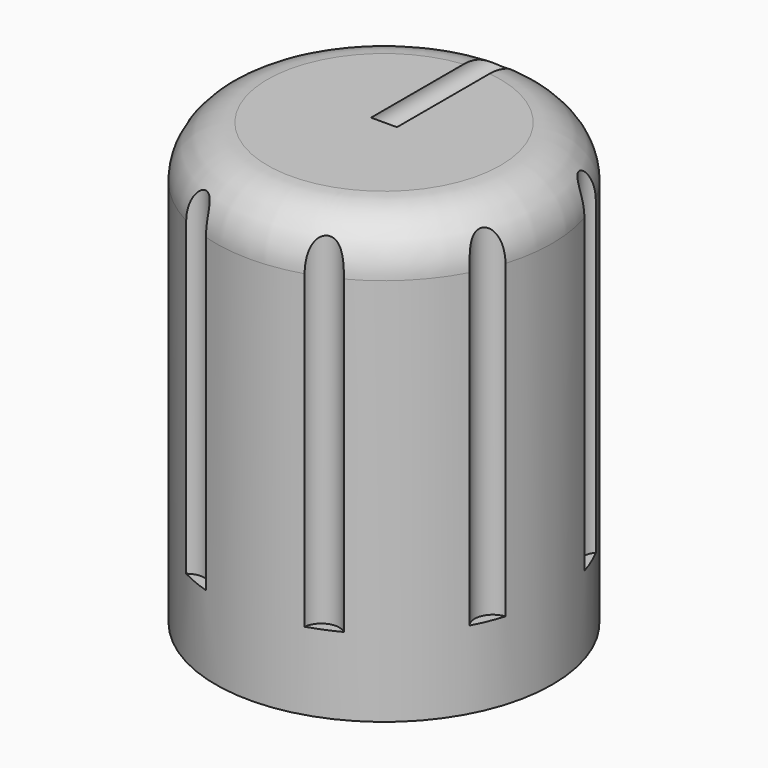
from build123d import *

# Parameters (mm, degrees)
CYLINDER_R                    = 4
CYLINDER_DEPTH                = 2
CYLINDER004_R                 = 0.7
CYLINDER004_DEPTH             = 15
CYLINDER005_R                 = 0.7
CYLINDER005_DEPTH             = 15
CYLINDER006_R                 = 0.7
CYLINDER006_DEPTH             = 15
CYLINDER007_R                 = 0.7
CYLINDER007_DEPTH             = 15
CYLINDER008_R                 = 0.7
CYLINDER008_DEPTH             = 15
CYLINDER009_R                 = 0.7
CYLINDER009_DEPTH             = 15
CYLINDER010_R                 = 0.7
CYLINDER010_DEPTH             = 15
CYLINDER003_R                 = 0.7
CYLINDER003_DEPTH             = 15
CUBE_W                        = 10
CUBE_H                        = 5
CUBE_DEPTH                    = 12
CYLINDER011_R                 = 3.2
CYLINDER011_DEPTH             = 12
CUBE001_W                     = 10
CUBE001_H                     = 5
CUBE001_DEPTH                 = 8
CYLINDER012_R                 = 3.2
CYLINDER012_DEPTH             = 2
CYLINDER002_R                 = 0.5
CYLINDER002_DEPTH             = 6.5
CYLINDER001_R                 = 4.5
CYLINDER001_DEPTH             = 2
REFINEROTATEEXTRUDE_R         = 2
ROTATEEXTRUDE_PLACEMENT_ANGLE = 90
CYLINDER_R_2                  = 6.5
CYLINDER_DEPTH_2              = 15


with BuildPart() as cylinder:
    # Cylinder → Cylinder (new body)
    with BuildSketch(Plane.XY):
        Circle(CYLINDER_R)
    extrude(amount=CYLINDER_DEPTH)


with BuildPart() as cylinder004:
    # cylinder004 → cylinder004 (new body)
    with BuildSketch(Plane(origin=(6.28238, 2.60225, 3), x_dir=(1, 0, 0), z_dir=(0, 0, 1))):
        Circle(CYLINDER004_R)
    extrude(amount=CYLINDER004_DEPTH)


with BuildPart() as cylinder005:
    # cylinder005 → cylinder005 (new body)
    with BuildSketch(Plane(origin=(6.28238, -2.60225, 3), x_dir=(1, 0, 0), z_dir=(0, 0, 1))):
        Circle(CYLINDER005_R)
    extrude(amount=CYLINDER005_DEPTH)


with BuildPart() as cylinder006:
    # cylinder006 → cylinder006 (new body)
    with BuildSketch(Plane(origin=(2.60225, -6.28238, 3), x_dir=(1, 0, 0), z_dir=(0, 0, 1))):
        Circle(CYLINDER006_R)
    extrude(amount=CYLINDER006_DEPTH)


with BuildPart() as cylinder007:
    # cylinder007 → cylinder007 (new body)
    with BuildSketch(Plane(origin=(-2.60225, -6.28238, 3), x_dir=(1, 0, 0), z_dir=(0, 0, 1))):
        Circle(CYLINDER007_R)
    extrude(amount=CYLINDER007_DEPTH)


with BuildPart() as cylinder008:
    # cylinder008 → cylinder008 (new body)
    with BuildSketch(Plane(origin=(-6.28238, -2.60225, 3), x_dir=(1, 0, 0), z_dir=(0, 0, 1))):
        Circle(CYLINDER008_R)
    extrude(amount=CYLINDER008_DEPTH)


with BuildPart() as cylinder009:
    # cylinder009 → cylinder009 (new body)
    with BuildSketch(Plane(origin=(-6.28238, 2.60225, 3), x_dir=(1, 0, 0), z_dir=(0, 0, 1))):
        Circle(CYLINDER009_R)
    extrude(amount=CYLINDER009_DEPTH)


with BuildPart() as cylinder010:
    # cylinder010 → cylinder010 (new body)
    with BuildSketch(Plane(origin=(-2.60225, 6.28238, 3), x_dir=(1, 0, 0), z_dir=(0, 0, 1))):
        Circle(CYLINDER010_R)
    extrude(amount=CYLINDER010_DEPTH)


with BuildPart() as group:
    # cylinder003 → cylinder003 (new body)
    with BuildSketch(Plane(origin=(2.60225, 6.28238, 3), x_dir=(1, 0, 0), z_dir=(0, 0, 1))):
        Circle(CYLINDER003_R)
    extrude(amount=CYLINDER003_DEPTH)

    # Group: union cylinder004, cylinder005, cylinder006, cylinder007, cylinder008, cylinder009, cylinder010
    add(cylinder004.part)
    add(cylinder005.part)
    add(cylinder006.part)
    add(cylinder007.part)
    add(cylinder008.part)
    add(cylinder009.part)
    add(cylinder010.part)


with BuildPart() as cube:
    # cube → cube (new body)
    with BuildSketch(Plane(origin=(-5, -6.6, 2), x_dir=(1, 0, 0), z_dir=(0, 0, 1))):
        with Locations((5, 2.5)):
            Rectangle(CUBE_W, CUBE_H)
    extrude(amount=CUBE_DEPTH)


with BuildPart() as difference:
    # cylinder011 → cylinder011 (new body)
    with BuildSketch(Plane.XY.offset(2)):
        Circle(CYLINDER011_R)
    extrude(amount=CYLINDER011_DEPTH)

    # difference: cut cube
    add(cube.part, mode=Mode.SUBTRACT)


with BuildPart() as cube001:
    # cube001 → cube001 (new body)
    with BuildSketch(Plane(origin=(-5, -6.6, 0), x_dir=(1, 0, 0), z_dir=(0, 0, 1))):
        with Locations((5, 2.5)):
            Rectangle(CUBE001_W, CUBE001_H)
    extrude(amount=CUBE001_DEPTH)


with BuildPart() as difference001:
    # cylinder012 → cylinder012 (new body)
    with BuildSketch(Plane.XY):
        Circle(CYLINDER012_R)
    extrude(amount=CYLINDER012_DEPTH)

    # difference001: cut cube001
    add(cube001.part, mode=Mode.SUBTRACT)


with BuildPart() as union001:
    # cylinder002 → cylinder002 (new body)
    with BuildSketch(Plane(origin=(0, 0, 17), x_dir=(1, 0, 0), z_dir=(0, 1, 0))):
        Circle(CYLINDER002_R)
    extrude(amount=CYLINDER002_DEPTH)

    # union001: union Group, difference, difference001
    add(group.part)
    add(difference.part)
    add(difference001.part)


with BuildPart() as cylinder001:
    # cylinder001 → cylinder001 (new body)
    with BuildSketch(Plane.XY.offset(15)):
        Circle(CYLINDER001_R)
    extrude(amount=CYLINDER001_DEPTH)


with BuildPart() as rotateextrude:
    # RefineRotateExtrude → RotateExtrude (revolve)
    with BuildSketch(Plane(origin=(4.5, 0, 0), x_dir=(0, 1, 0), z_dir=(0, 0, 1))):
        Circle(REFINEROTATEEXTRUDE_R)
    revolve(axis=Axis((0, 0, 0), (0, 1, 0)))


with BuildPart() as rotateextrude_1:
    # RotateExtrude placement: moved
    add(rotateextrude.part.moved(Location((0, 0, 15))).rotate(Axis((0, 0, 15), (1, 0, 0)), ROTATEEXTRUDE_PLACEMENT_ANGLE))


with BuildPart() as cut:
    # cylinder → cylinder (new body)
    with BuildSketch(Plane.XY):
        Circle(CYLINDER_R_2)
    extrude(amount=CYLINDER_DEPTH_2)

    # union: union cylinder001, RotateExtrude
    add(cylinder001.part)
    add(rotateextrude_1.part)

    # difference002: cut union001
    add(union001.part, mode=Mode.SUBTRACT)

    # Cut: cut Cylinder
    add(cylinder.part, mode=Mode.SUBTRACT)


solid = cut.part
